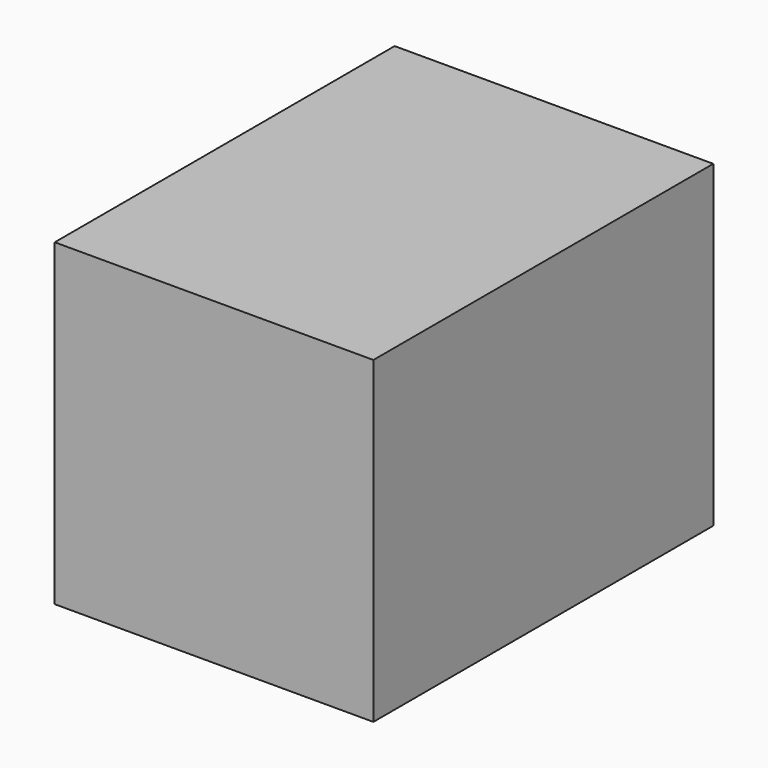
from build123d import *

# Parameters (mm, degrees)
F0_W     = 30
F0_H     = 30
F0_W_2   = 12
F0_H_2   = 6
F1_DEPTH = 40


with BuildPart() as f1:
    # F0 (on Front) → F1 (new body)
    with BuildSketch(Plane.XZ):
        Rectangle(F0_W, F0_H)
        with Locations((0, -7.5)):
            Rectangle(F0_W_2, F0_H_2, mode=Mode.SUBTRACT)
        with Locations((0, 7.5)):
            Rectangle(F0_W_2, F0_H_2, mode=Mode.SUBTRACT)
        with Locations((0, 7.5)):
            Rectangle(F0_W_2, F0_H_2)
        with Locations((0, -7.5)):
            Rectangle(F0_W_2, F0_H_2)
    extrude(amount=F1_DEPTH)


solid = f1.part
